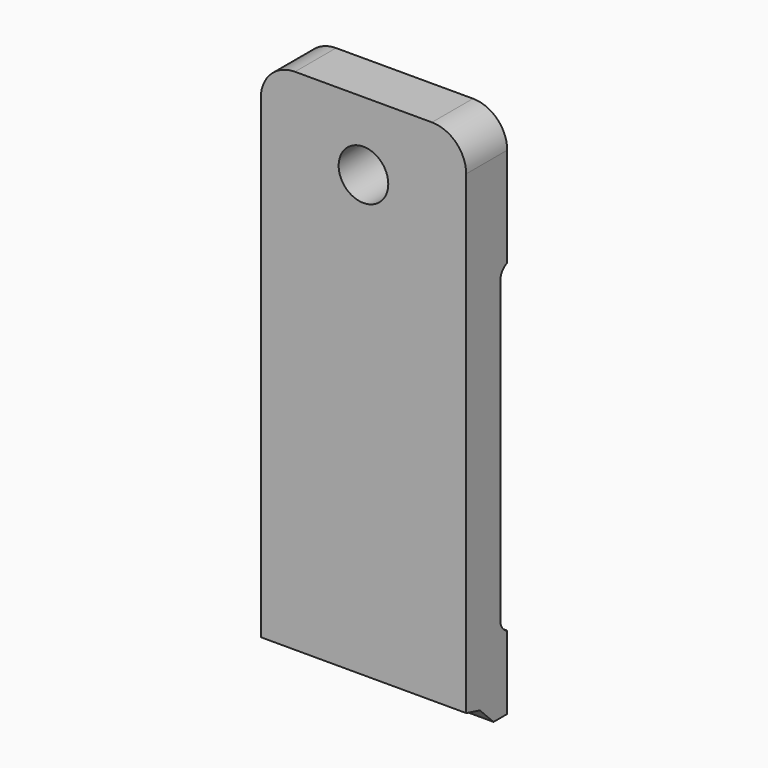
from build123d import *

# Parameters (mm, degrees)
PAD109_DEPTH         = 6
FILLET017_R          = 2
SKETCH514_R          = 1.45
POCKET337_DEPTH      = 18.001
POCKET337_DEPTH_BACK = 0.001


with BuildPart() as part:
    # Sketch513 → Pad109 (new body, symmetric)
    with BuildSketch(Plane.YZ):
        with BuildLine():
            Line((15, 58), (18, 58))
            Line((18, 58), (18, 50.207107))
            ThreePointArc((18, 50.207107), (17.637628, 49.933013), (17.5, 49.5))
            Line((17.5, 49.5), (17.5, 32))
            ThreePointArc((17.5, 32), (17.637628, 31.566987), (18, 31.292893))
            Line((18, 31.292893), (18, 28))
            Line((18, 28), (18, 27))
            Line((18, 27), (17, 27))
            Line((17, 27), (16, 28))
            Line((15, 28.267949), (16, 28))
            Line((15, 58), (15, 28.267949))
        make_face()
    extrude(amount=PAD109_DEPTH, both=True)

    # Fillet017
    fillet017_edges = [part.edges().sort_by_distance(p)[0] for p in [
        (6, 16.5, 58),
        (-6, 16.5, 58),
    ]]
    fillet(fillet017_edges, radius=FILLET017_R)

    # Sketch514 → Pocket337 (cut, two sides)
    with BuildSketch(Plane.XZ) as pocket337_sk:
        with Locations((0, 54)):
            Circle(SKETCH514_R)
    extrude(amount=-POCKET337_DEPTH, mode=Mode.SUBTRACT)
    extrude(pocket337_sk.sketch, amount=POCKET337_DEPTH_BACK, mode=Mode.SUBTRACT)


solid = part.part
